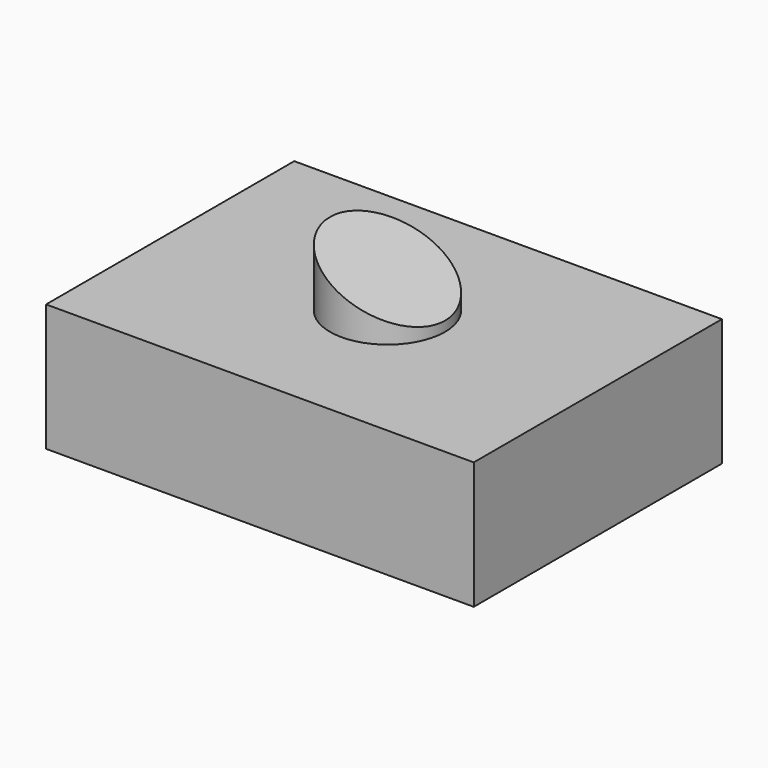
from build123d import *

# Parameters (mm, degrees)
F0_W     = 85.417319
F0_H     = 61.955053
F1_DEPTH = 25.4
F2_R     = 11.492787
F3_DEPTH = 12.7
F5_DEPTH = 25.4


with BuildPart() as f1:
    # F0 (on Top) → F1 (new body)
    with BuildSketch(Plane.XY):
        with Locations((5.865568, -0.641545)):
            Rectangle(F0_W, F0_H)
    extrude(amount=F1_DEPTH)

    # F2 (on face) → F3 (join)
    with BuildSketch(Plane.XY.offset(25.4)):
        with Locations((6.048867, 0)):
            Circle(F2_R)
    extrude(amount=F3_DEPTH)

    # F4 (on Front) → F5 (cut, symmetric)
    with BuildSketch(Plane.XZ):
        Polygon((18.033221, 39.003748), (-6.255646, 38.51638), (18.033221, 27.144257), align=None)
    extrude(amount=F5_DEPTH, both=True, mode=Mode.SUBTRACT)


solid = f1.part
